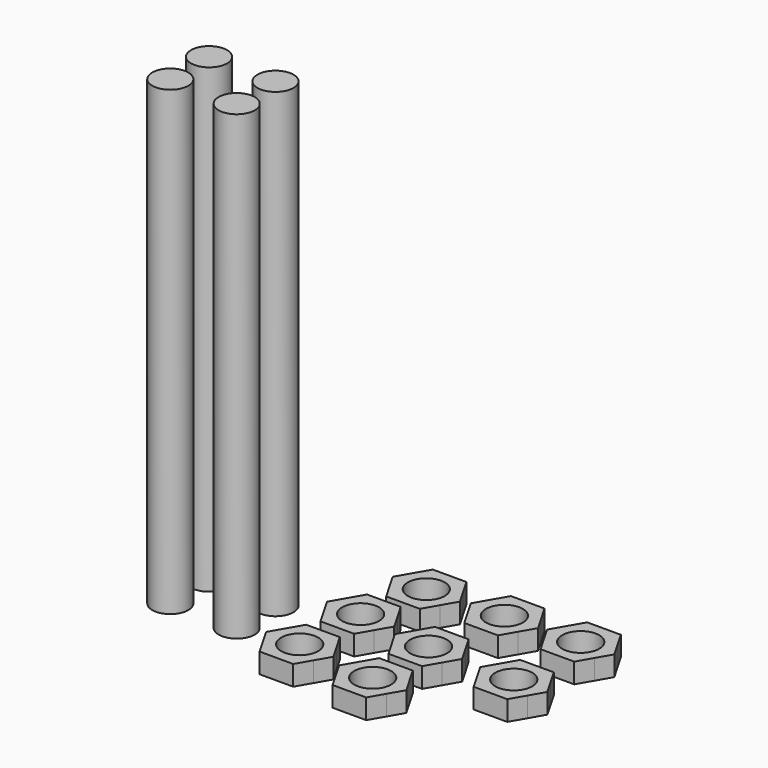
from build123d import *

# Parameters (mm, degrees)
F0_R     = 4
F1_DEPTH = 102.5
F2_R     = 4.1
F3_DEPTH = 4.445


with BuildPart() as f1:
    # F0 (on Top) → F1 (new body)
    with BuildSketch(Plane.XY):
        with Locations((-16.1153431982, 12.9323182628)):
            Circle(F0_R)
    extrude(amount=F1_DEPTH)


with BuildPart() as f1b:
    # F0 (on Top) → F1, piece 2 (new body)
    with BuildSketch(Plane.XY):
        with Locations((-1.3679224066, 12.9323182628)):
            Circle(F0_R)
    extrude(amount=F1_DEPTH)


with BuildPart() as f1c:
    # F0 (on Top) → F1, piece 3 (new body)
    with BuildSketch(Plane.XY):
        with Locations((-1.3679224066, 2.1706875414)):
            Circle(F0_R)
    extrude(amount=F1_DEPTH)


with BuildPart() as f1d:
    # F0 (on Top) → F1, piece 4 (new body)
    with BuildSketch(Plane.XY):
        with Locations((-16.1153431982, 2.1706875414)):
            Circle(F0_R)
    extrude(amount=F1_DEPTH)


with BuildPart() as f3:
    # F2 (on Top) → F3 (new body)
    with BuildSketch(Plane.XY):
        with BuildLine():
            ThreePointArc((26.1220804673, 24.1964040249), (26.7677051282, 25.7550798197), (26.987915677, 27.4277449835))
            ThreePointArc((26.987915677, 27.4277449835), (26.7677051517, 29.1004100597), (26.1220805581, 30.6590857849))
            ThreePointArc((26.1220805581, 30.6590857849), (23.7565748121, 33.0245916115), (20.5252338201, 33.8904268404))
            ThreePointArc((20.5252338201, 33.8904268404), (17.2938930039, 33.024591713), (14.9283872851, 30.6590861366))
            ThreePointArc((14.9283872851, 30.6590861366), (14.0625519632, 27.4277451866), (14.9283870821, 24.1964041822))
            ThreePointArc((14.9283870821, 24.1964041822), (17.2938928281, 21.8308983556), (20.5252338201, 20.9650631266))
            ThreePointArc((20.5252338201, 20.9650631266), (23.7565747334, 21.8308983102), (26.1220804673, 24.1964040249))
        make_face()
        with Locations((20.5252338201, 27.4277449835)):
            Circle(F2_R, mode=Mode.SUBTRACT)
        with BuildLine():
            Line((24.2564649298, 20.9650631266), (26.1220804673, 24.1964040249))
            ThreePointArc((26.1220804673, 24.1964040249), (23.7565747334, 21.8308983102), (20.5252338201, 20.9650631266))
            Line((20.5252338201, 20.9650631266), (24.2564649298, 20.9650631266))
        make_face()
        with BuildLine():
            ThreePointArc((26.1220805581, 30.6590857849), (26.7677051517, 29.1004100597), (26.987915677, 27.4277449835))
            ThreePointArc((26.987915677, 27.4277449835), (26.7677051282, 25.7550798197), (26.1220804673, 24.1964040249))
            Line((26.1220804673, 24.1964040249), (27.9876960396, 27.4277449835))
            Line((27.9876960396, 27.4277449835), (26.1220805581, 30.6590857849))
        make_face()
        with BuildLine():
            ThreePointArc((20.5252338201, 33.8904268404), (23.7565748121, 33.0245916115), (26.1220805581, 30.6590857849))
            Line((26.1220805581, 30.6590857849), (24.2564649298, 33.8904268404))
            Line((24.2564649298, 33.8904268404), (20.5252338201, 33.8904268404))
        make_face()
        with BuildLine():
            ThreePointArc((14.9283872851, 30.6590861366), (17.2938930039, 33.024591713), (20.5252338201, 33.8904268404))
            Line((20.5252338201, 33.8904268404), (16.7940027103, 33.8904268404))
            Line((16.7940027103, 33.8904268404), (14.9283872851, 30.6590861366))
        make_face()
        with BuildLine():
            ThreePointArc((14.9283870821, 24.1964041822), (14.0625519632, 27.4277451866), (14.9283872851, 30.6590861366))
            Line((14.9283872851, 30.6590861366), (13.0627716006, 27.4277449835))
            Line((13.0627716006, 27.4277449835), (14.9283870821, 24.1964041822))
        make_face()
        with BuildLine():
            Line((16.7940027103, 20.9650631266), (20.5252338201, 20.9650631266))
            ThreePointArc((20.5252338201, 20.9650631266), (17.2938928281, 21.8308983556), (14.9283870821, 24.1964041822))
            Line((14.9283870821, 24.1964041822), (16.7940027103, 20.9650631266))
        make_face()
    extrude(amount=F3_DEPTH)


with BuildPart() as f3b:
    # F2 (on Top) → F3, piece 2 (new body)
    with BuildSketch(Plane.XY):
        with BuildLine():
            ThreePointArc((23.0782314461, 9.7663067206), (23.723856107, 11.3249825154), (23.9440666558, 12.9976476792))
            ThreePointArc((23.9440666558, 12.9976476792), (23.723856107, 14.6703128431), (23.0782314461, 16.2289886379))
            ThreePointArc((23.0782314461, 16.2289886379), (20.7127257122, 18.5944943526), (17.4813847989, 19.4603295361))
            ThreePointArc((17.4813847989, 19.4603295361), (14.2500439642, 18.594494398), (11.8845382425, 16.2289887952))
            ThreePointArc((11.8845382425, 16.2289887952), (11.018702942, 12.99764777), (11.8845381517, 9.7663067206))
            ThreePointArc((11.8845381517, 9.7663067206), (14.2500438855, 7.4008010059), (17.4813847989, 6.5349658224))
            ThreePointArc((17.4813847989, 6.5349658224), (20.7127257122, 7.4008010059), (23.0782314461, 9.7663067206))
        make_face()
        with Locations((17.4813847989, 12.9976476792)):
            Circle(F2_R, mode=Mode.SUBTRACT)
        with BuildLine():
            ThreePointArc((17.4813847989, 19.4603295361), (20.7127257122, 18.5944943526), (23.0782314461, 16.2289886379))
            Line((23.0782314461, 16.2289886379), (21.2126159086, 19.4603295361))
            Line((21.2126159086, 19.4603295361), (17.4813847989, 19.4603295361))
        make_face()
        with BuildLine():
            ThreePointArc((23.0782314461, 16.2289886379), (23.723856107, 14.6703128431), (23.9440666558, 12.9976476792))
            ThreePointArc((23.9440666558, 12.9976476792), (23.723856107, 11.3249825154), (23.0782314461, 9.7663067206))
            Line((23.0782314461, 9.7663067206), (24.9438470184, 12.9976476792))
            Line((24.9438470184, 12.9976476792), (23.0782314461, 16.2289886379))
        make_face()
        with BuildLine():
            Line((21.2126159086, 6.5349658224), (23.0782314461, 9.7663067206))
            ThreePointArc((23.0782314461, 9.7663067206), (20.7127257122, 7.4008010059), (17.4813847989, 6.5349658224))
            Line((17.4813847989, 6.5349658224), (21.2126159086, 6.5349658224))
        make_face()
        with BuildLine():
            Line((13.7501536891, 6.5349658224), (17.4813847989, 6.5349658224))
            ThreePointArc((17.4813847989, 6.5349658224), (14.2500438855, 7.4008010059), (11.8845381517, 9.7663067206))
            Line((11.8845381517, 9.7663067206), (13.7501536891, 6.5349658224))
        make_face()
        with BuildLine():
            ThreePointArc((11.8845381517, 9.7663067206), (11.018702942, 12.99764777), (11.8845382425, 16.2289887952))
            Line((11.8845382425, 16.2289887952), (10.0189225794, 12.9976476792))
            Line((10.0189225794, 12.9976476792), (11.8845381517, 9.7663067206))
        make_face()
        with BuildLine():
            ThreePointArc((11.8845382425, 16.2289887952), (14.2500439642, 18.594494398), (17.4813847989, 19.4603295361))
            Line((17.4813847989, 19.4603295361), (13.7501536891, 19.4603295361))
            Line((13.7501536891, 19.4603295361), (11.8845382425, 16.2289887952))
        make_face()
    extrude(amount=F3_DEPTH)


with BuildPart() as f3c:
    # F2 (on Top) → F3, piece 3 (new body)
    with BuildSketch(Plane.XY):
        with BuildLine():
            ThreePointArc((31.7259205786, 31.335498332), (34.0914262928, 33.7010038657), (37.3227670789, 34.5668389758))
            Line((37.3227670789, 34.5668389758), (33.5915359691, 34.5668389758))
            Line((33.5915359691, 34.5668389758), (31.7259205786, 31.335498332))
        make_face()
        with BuildLine():
            ThreePointArc((42.9196138169, 24.8728163175), (43.5652384105, 26.4314920428), (43.7854489358, 28.1041571189))
            ThreePointArc((43.7854489358, 28.1041571189), (43.565238349, 29.7768224246), (42.9196135792, 31.335498332))
            ThreePointArc((42.9196135792, 31.335498332), (40.554107865, 33.7010038657), (37.3227670789, 34.5668389758))
            ThreePointArc((37.3227670789, 34.5668389758), (34.0914262928, 33.7010038657), (31.7259205786, 31.335498332))
            ThreePointArc((31.7259205786, 31.335498332), (30.860085222, 28.1041574127), (31.7259202848, 24.8728164147))
            ThreePointArc((31.7259202848, 24.8728164147), (34.0914260383, 22.507310519), (37.3227670789, 21.641475262))
            ThreePointArc((37.3227670789, 21.641475262), (40.5541080709, 22.5073104909), (42.9196138169, 24.8728163175))
        make_face()
        with Locations((37.3227670789, 28.1041571189)):
            Circle(F2_R, mode=Mode.SUBTRACT)
        with BuildLine():
            ThreePointArc((31.7259202848, 24.8728164147), (30.860085222, 28.1041574127), (31.7259205786, 31.335498332))
            Line((31.7259205786, 31.335498332), (29.8603048593, 28.1041571189))
            Line((29.8603048593, 28.1041571189), (31.7259202848, 24.8728164147))
        make_face()
        with BuildLine():
            Line((33.5915359691, 21.641475262), (37.3227670789, 21.641475262))
            ThreePointArc((37.3227670789, 21.641475262), (34.0914260383, 22.507310519), (31.7259202848, 24.8728164147))
            Line((31.7259202848, 24.8728164147), (33.5915359691, 21.641475262))
        make_face()
        with BuildLine():
            Line((41.0539981886, 21.641475262), (42.9196138169, 24.8728163175))
            ThreePointArc((42.9196138169, 24.8728163175), (40.5541080709, 22.5073104909), (37.3227670789, 21.641475262))
            Line((37.3227670789, 21.641475262), (41.0539981886, 21.641475262))
        make_face()
        with BuildLine():
            ThreePointArc((42.9196135792, 31.335498332), (43.565238349, 29.7768224246), (43.7854489358, 28.1041571189))
            ThreePointArc((43.7854489358, 28.1041571189), (43.5652384105, 26.4314920428), (42.9196138169, 24.8728163175))
            Line((42.9196138169, 24.8728163175), (44.7852292984, 28.1041571189))
            Line((44.7852292984, 28.1041571189), (42.9196135792, 31.335498332))
        make_face()
        with BuildLine():
            ThreePointArc((37.3227670789, 34.5668389758), (40.554107865, 33.7010038657), (42.9196135792, 31.335498332))
            Line((42.9196135792, 31.335498332), (41.0539981886, 34.5668389758))
            Line((41.0539981886, 34.5668389758), (37.3227670789, 34.5668389758))
        make_face()
    extrude(amount=F3_DEPTH)


with BuildPart() as f3d:
    # F2 (on Top) → F3, piece 4 (new body)
    with BuildSketch(Plane.XY):
        with BuildLine():
            ThreePointArc((48.2165540826, 31.8991746875), (50.5820597968, 34.2646802212), (53.8134005829, 35.1305153313))
            Line((53.8134005829, 35.1305153313), (50.0821694732, 35.1305153313))
            Line((50.0821694732, 35.1305153313), (48.2165540826, 31.8991746875))
        make_face()
        with BuildLine():
            ThreePointArc((59.4102472352, 25.4364925245), (60.0558718924, 26.9951683155), (60.2760824398, 28.6678334744))
            ThreePointArc((60.2760824398, 28.6678334744), (60.0558718911, 30.3404986383), (59.4102472301, 31.8991744331))
            ThreePointArc((59.4102472301, 31.8991744331), (57.0447414963, 34.2646801478), (53.8134005829, 35.1305153313))
            ThreePointArc((53.8134005829, 35.1305153313), (50.5820597968, 34.2646802212), (48.2165540826, 31.8991746875))
            ThreePointArc((48.2165540826, 31.8991746875), (47.350718726, 28.6678336213), (48.2165539357, 25.4364925158))
            ThreePointArc((48.2165539357, 25.4364925158), (50.5820596696, 23.0709868011), (53.8134005829, 22.2051516175))
            ThreePointArc((53.8134005829, 22.2051516175), (57.0447415007, 23.0709868036), (59.4102472352, 25.4364925245))
        make_face()
        with Locations((53.8134005829, 28.6678334744)):
            Circle(F2_R, mode=Mode.SUBTRACT)
        with BuildLine():
            ThreePointArc((48.2165539357, 25.4364925158), (47.350718726, 28.6678336213), (48.2165540826, 31.8991746875))
            Line((48.2165540826, 31.8991746875), (46.3509383634, 28.6678334744))
            Line((46.3509383634, 28.6678334744), (48.2165539357, 25.4364925158))
        make_face()
        with BuildLine():
            Line((50.0821694732, 22.2051516175), (53.8134005829, 22.2051516175))
            ThreePointArc((53.8134005829, 22.2051516175), (50.5820596696, 23.0709868011), (48.2165539357, 25.4364925158))
            Line((48.2165539357, 25.4364925158), (50.0821694732, 22.2051516175))
        make_face()
        with BuildLine():
            Line((57.5446316927, 22.2051516175), (59.4102472352, 25.4364925245))
            ThreePointArc((59.4102472352, 25.4364925245), (57.0447415007, 23.0709868036), (53.8134005829, 22.2051516175))
            Line((53.8134005829, 22.2051516175), (57.5446316927, 22.2051516175))
        make_face()
        with BuildLine():
            ThreePointArc((59.4102472301, 31.8991744331), (60.0558718911, 30.3404986383), (60.2760824398, 28.6678334744))
            ThreePointArc((60.2760824398, 28.6678334744), (60.0558718924, 26.9951683155), (59.4102472352, 25.4364925245))
            Line((59.4102472352, 25.4364925245), (61.2758628025, 28.6678334744))
            Line((61.2758628025, 28.6678334744), (59.4102472301, 31.8991744331))
        make_face()
        with BuildLine():
            ThreePointArc((53.8134005829, 35.1305153313), (57.0447414963, 34.2646801478), (59.4102472301, 31.8991744331))
            Line((59.4102472301, 31.8991744331), (57.5446316927, 35.1305153313))
            Line((57.5446316927, 35.1305153313), (53.8134005829, 35.1305153313))
        make_face()
    extrude(amount=F3_DEPTH)


with BuildPart() as f3e:
    # F2 (on Top) → F3, piece 5 (new body)
    with BuildSketch(Plane.XY):
        with BuildLine():
            ThreePointArc((59.1534789324, 7.1733985622), (59.7991035677, 8.7320743304), (60.0193141074, 10.4047394607))
            ThreePointArc((60.0193141074, 10.4047394607), (59.7991035587, 12.0774046246), (59.1534788978, 13.6360804194))
            ThreePointArc((59.1534788978, 13.6360804194), (56.7879731639, 16.0015861341), (53.5566322505, 16.8674213176))
            ThreePointArc((53.5566322505, 16.8674213176), (50.3252914644, 16.0015862076), (47.9597857503, 13.6360806739))
            ThreePointArc((47.9597857503, 13.6360806739), (47.0939503937, 10.4047396077), (47.9597856033, 7.1733985021))
            ThreePointArc((47.9597856033, 7.1733985021), (50.3252913372, 4.8078927874), (53.5566322505, 3.9420576039))
            ThreePointArc((53.5566322505, 3.9420576039), (56.7879731939, 4.8078928047), (59.1534789324, 7.1733985622))
        make_face()
        with Locations((53.5566322505, 10.4047394607)):
            Circle(F2_R, mode=Mode.SUBTRACT)
        with BuildLine():
            ThreePointArc((47.9597857503, 13.6360806739), (50.3252914644, 16.0015862076), (53.5566322505, 16.8674213176))
            Line((53.5566322505, 16.8674213176), (49.8254011408, 16.8674213176))
            Line((49.8254011408, 16.8674213176), (47.9597857503, 13.6360806739))
        make_face()
        with BuildLine():
            ThreePointArc((47.9597856033, 7.1733985021), (47.0939503937, 10.4047396077), (47.9597857503, 13.6360806739))
            Line((47.9597857503, 13.6360806739), (46.094170031, 10.4047394607))
            Line((46.094170031, 10.4047394607), (47.9597856033, 7.1733985021))
        make_face()
        with BuildLine():
            Line((49.8254011408, 3.9420576039), (53.5566322505, 3.9420576039))
            ThreePointArc((53.5566322505, 3.9420576039), (50.3252913372, 4.8078927874), (47.9597856033, 7.1733985021))
            Line((47.9597856033, 7.1733985021), (49.8254011408, 3.9420576039))
        make_face()
        with BuildLine():
            Line((57.2878633603, 3.9420576039), (59.1534789324, 7.1733985622))
            ThreePointArc((59.1534789324, 7.1733985622), (56.7879731939, 4.8078928047), (53.5566322505, 3.9420576039))
            Line((53.5566322505, 3.9420576039), (57.2878633603, 3.9420576039))
        make_face()
        with BuildLine():
            ThreePointArc((59.1534788978, 13.6360804194), (59.7991035587, 12.0774046246), (60.0193141074, 10.4047394607))
            ThreePointArc((60.0193141074, 10.4047394607), (59.7991035677, 8.7320743304), (59.1534789324, 7.1733985622))
            Line((59.1534789324, 7.1733985622), (61.0190944701, 10.4047394607))
            Line((61.0190944701, 10.4047394607), (59.1534788978, 13.6360804194))
        make_face()
        with BuildLine():
            ThreePointArc((53.5566322505, 16.8674213176), (56.7879731639, 16.0015861341), (59.1534788978, 13.6360804194))
            Line((59.1534788978, 13.6360804194), (57.2878633603, 16.8674213176))
            Line((57.2878633603, 16.8674213176), (53.5566322505, 16.8674213176))
        make_face()
    extrude(amount=F3_DEPTH)


with BuildPart() as f3f:
    # F2 (on Top) → F3, piece 6 (new body)
    with BuildSketch(Plane.XY):
        with BuildLine():
            ThreePointArc((39.8757683179, 7.6243381791), (40.5213930621, 9.1830140599), (40.7416036399, 10.8556793321))
            ThreePointArc((40.7416036399, 10.8556793321), (40.5213930911, 12.528344496), (39.8757684302, 14.0870202908))
            ThreePointArc((39.8757684302, 14.0870202908), (37.5102626963, 16.4525260055), (34.278921783, 17.318361189))
            ThreePointArc((34.278921783, 17.318361189), (31.047580791, 16.4525259601), (28.682075045, 14.0870201335))
            ThreePointArc((28.682075045, 14.0870201335), (27.8162399261, 10.8556792974), (28.6820750796, 7.6243384707))
            ThreePointArc((28.6820750796, 7.6243384707), (31.047580821, 5.2588326868), (34.278921783, 4.3929974752))
            ThreePointArc((34.278921783, 4.3929974752), (37.5102625991, 5.2588326026), (39.8757683179, 7.6243381791))
        make_face()
        with Locations((34.278921783, 10.8556793321)):
            Circle(F2_R, mode=Mode.SUBTRACT)
        with BuildLine():
            ThreePointArc((28.682075045, 14.0870201335), (31.047580791, 16.4525259601), (34.278921783, 17.318361189))
            Line((34.278921783, 17.318361189), (30.5476906732, 17.318361189))
            Line((30.5476906732, 17.318361189), (28.682075045, 14.0870201335))
        make_face()
        with BuildLine():
            ThreePointArc((28.6820750796, 7.6243384707), (27.8162399261, 10.8556792974), (28.682075045, 14.0870201335))
            Line((28.682075045, 14.0870201335), (26.8164595634, 10.8556793321))
            Line((26.8164595634, 10.8556793321), (28.6820750796, 7.6243384707))
        make_face()
        with BuildLine():
            Line((30.5476906732, 4.3929974752), (34.278921783, 4.3929974752))
            ThreePointArc((34.278921783, 4.3929974752), (31.047580821, 5.2588326868), (28.6820750796, 7.6243384707))
            Line((28.6820750796, 7.6243384707), (30.5476906732, 4.3929974752))
        make_face()
        with BuildLine():
            Line((38.0101528927, 4.3929974752), (39.8757683179, 7.6243381791))
            ThreePointArc((39.8757683179, 7.6243381791), (37.5102625991, 5.2588326026), (34.278921783, 4.3929974752))
            Line((34.278921783, 4.3929974752), (38.0101528927, 4.3929974752))
        make_face()
        with BuildLine():
            ThreePointArc((39.8757684302, 14.0870202908), (40.5213930911, 12.528344496), (40.7416036399, 10.8556793321))
            ThreePointArc((40.7416036399, 10.8556793321), (40.5213930621, 9.1830140599), (39.8757683179, 7.6243381791))
            Line((39.8757683179, 7.6243381791), (41.7413840025, 10.8556793321))
            Line((41.7413840025, 10.8556793321), (39.8757684302, 14.0870202908))
        make_face()
        with BuildLine():
            ThreePointArc((34.278921783, 17.318361189), (37.5102626963, 16.4525260055), (39.8757684302, 14.0870202908))
            Line((39.8757684302, 14.0870202908), (38.0101528927, 17.318361189))
            Line((38.0101528927, 17.318361189), (34.278921783, 17.318361189))
        make_face()
    extrude(amount=F3_DEPTH)


with BuildPart() as f3g:
    # F2 (on Top) → F3, piece 7 (new body)
    with BuildSketch(Plane.XY):
        with BuildLine():
            ThreePointArc((21.9199691702, -5.6913628814), (22.5655938312, -4.1326870866), (22.7858043799, -2.4600219228))
            ThreePointArc((22.7858043799, -2.4600219228), (22.5655938312, -0.7873567589), (21.9199691702, 0.7713190359))
            ThreePointArc((21.9199691702, 0.7713190359), (19.5544634364, 3.1368247506), (16.323122523, 4.0026599341))
            ThreePointArc((16.323122523, 4.0026599341), (13.0917815365, 3.1368247083), (10.7262757913, 0.7713188895))
            ThreePointArc((10.7262757913, 0.7713188895), (9.8604406661, -2.4600219165), (10.726275785, -5.6913627242))
            ThreePointArc((10.726275785, -5.6913627242), (13.091781531, -8.0568685508), (16.323122523, -8.9227037797))
            ThreePointArc((16.323122523, -8.9227037797), (19.5544634364, -8.0568685962), (21.9199691702, -5.6913628814))
        make_face()
        with Locations((16.323122523, -2.4600219228)):
            Circle(F2_R, mode=Mode.SUBTRACT)
        with BuildLine():
            ThreePointArc((16.323122523, 4.0026599341), (19.5544634364, 3.1368247506), (21.9199691702, 0.7713190359))
            Line((21.9199691702, 0.7713190359), (20.0543536328, 4.0026599341))
            Line((20.0543536328, 4.0026599341), (16.323122523, 4.0026599341))
        make_face()
        with BuildLine():
            ThreePointArc((10.7262757913, 0.7713188895), (13.0917815365, 3.1368247083), (16.323122523, 4.0026599341))
            Line((16.323122523, 4.0026599341), (12.5918914132, 4.0026599341))
            Line((12.5918914132, 4.0026599341), (10.7262757913, 0.7713188895))
        make_face()
        with BuildLine():
            ThreePointArc((10.726275785, -5.6913627242), (9.8604406661, -2.4600219165), (10.7262757913, 0.7713188895))
            Line((10.7262757913, 0.7713188895), (8.8606603035, -2.4600219228))
            Line((8.8606603035, -2.4600219228), (10.726275785, -5.6913627242))
        make_face()
        with BuildLine():
            Line((12.5918914132, -8.9227037797), (16.323122523, -8.9227037797))
            ThreePointArc((16.323122523, -8.9227037797), (13.091781531, -8.0568685508), (10.726275785, -5.6913627242))
            Line((10.726275785, -5.6913627242), (12.5918914132, -8.9227037797))
        make_face()
        with BuildLine():
            Line((20.0543536328, -8.9227037797), (21.9199691702, -5.6913628814))
            ThreePointArc((21.9199691702, -5.6913628814), (19.5544634364, -8.0568685962), (16.323122523, -8.9227037797))
            Line((16.323122523, -8.9227037797), (20.0543536328, -8.9227037797))
        make_face()
        with BuildLine():
            ThreePointArc((21.9199691702, 0.7713190359), (22.5655938312, -0.7873567589), (22.7858043799, -2.4600219228))
            ThreePointArc((22.7858043799, -2.4600219228), (22.5655938312, -4.1326870866), (21.9199691702, -5.6913628814))
            Line((21.9199691702, -5.6913628814), (23.7855847425, -2.4600219228))
            Line((23.7855847425, -2.4600219228), (21.9199691702, 0.7713190359))
        make_face()
    extrude(amount=F3_DEPTH)


with BuildPart() as f3h:
    # F2 (on Top) → F3, piece 8 (new body)
    with BuildSketch(Plane.XY):
        with BuildLine():
            ThreePointArc((39.6502988347, -7.5949055529), (40.2959235886, -6.0362296619), (40.5161341698, -4.3635643769))
            ThreePointArc((40.5161341698, -4.3635643769), (40.295923592, -2.6908991046), (39.6502988479, -1.1322232238))
            ThreePointArc((39.6502988479, -1.1322232238), (37.2847931291, 1.2332823526), (34.0534523129, 2.09911748))
            ThreePointArc((34.0534523129, 2.09911748), (30.8221112909, 1.2332822337), (28.4566055403, -1.1322236356))
            ThreePointArc((28.4566055403, -1.1322236356), (27.5907704561, -4.3635645024), (28.4566056657, -7.5949053355))
            ThreePointArc((28.4566056657, -7.5949053355), (30.8221113996, -9.9604110502), (34.0534523129, -10.8262462338))
            ThreePointArc((34.0534523129, -10.8262462338), (37.2847931176, -9.960411113), (39.6502988347, -7.5949055529))
        make_face()
        with Locations((34.0534523129, -4.3635643769)):
            Circle(F2_R, mode=Mode.SUBTRACT)
        with BuildLine():
            ThreePointArc((34.0534523129, 2.09911748), (37.2847931291, 1.2332823526), (39.6502988479, -1.1322232238))
            Line((39.6502988479, -1.1322232238), (37.7846834227, 2.09911748))
            Line((37.7846834227, 2.09911748), (34.0534523129, 2.09911748))
        make_face()
        with BuildLine():
            ThreePointArc((39.6502988479, -1.1322232238), (40.295923592, -2.6908991046), (40.5161341698, -4.3635643769))
            ThreePointArc((40.5161341698, -4.3635643769), (40.2959235886, -6.0362296619), (39.6502988347, -7.5949055529))
            Line((39.6502988347, -7.5949055529), (41.5159145325, -4.3635643769))
            Line((41.5159145325, -4.3635643769), (39.6502988479, -1.1322232238))
        make_face()
        with BuildLine():
            Line((37.7846834227, -10.8262462338), (39.6502988347, -7.5949055529))
            ThreePointArc((39.6502988347, -7.5949055529), (37.2847931176, -9.960411113), (34.0534523129, -10.8262462338))
            Line((34.0534523129, -10.8262462338), (37.7846834227, -10.8262462338))
        make_face()
        with BuildLine():
            Line((30.3222212032, -10.8262462338), (34.0534523129, -10.8262462338))
            ThreePointArc((34.0534523129, -10.8262462338), (30.8221113996, -9.9604110502), (28.4566056657, -7.5949053355))
            Line((28.4566056657, -7.5949053355), (30.3222212032, -10.8262462338))
        make_face()
        with BuildLine():
            ThreePointArc((28.4566056657, -7.5949053355), (27.5907704561, -4.3635645024), (28.4566055403, -1.1322236356))
            Line((28.4566055403, -1.1322236356), (26.5909900934, -4.3635643769))
            Line((26.5909900934, -4.3635643769), (28.4566056657, -7.5949053355))
        make_face()
        with BuildLine():
            ThreePointArc((28.4566055403, -1.1322236356), (30.8221112909, 1.2332822337), (34.0534523129, 2.09911748))
            Line((34.0534523129, 2.09911748), (30.3222212032, 2.09911748))
            Line((30.3222212032, 2.09911748), (28.4566055403, -1.1322236356))
        make_face()
    extrude(amount=F3_DEPTH)


solid = Compound([f1.part, f1b.part, f1c.part, f1d.part, f3.part, f3b.part, f3c.part, f3d.part, f3e.part, f3f.part, f3g.part, f3h.part])
